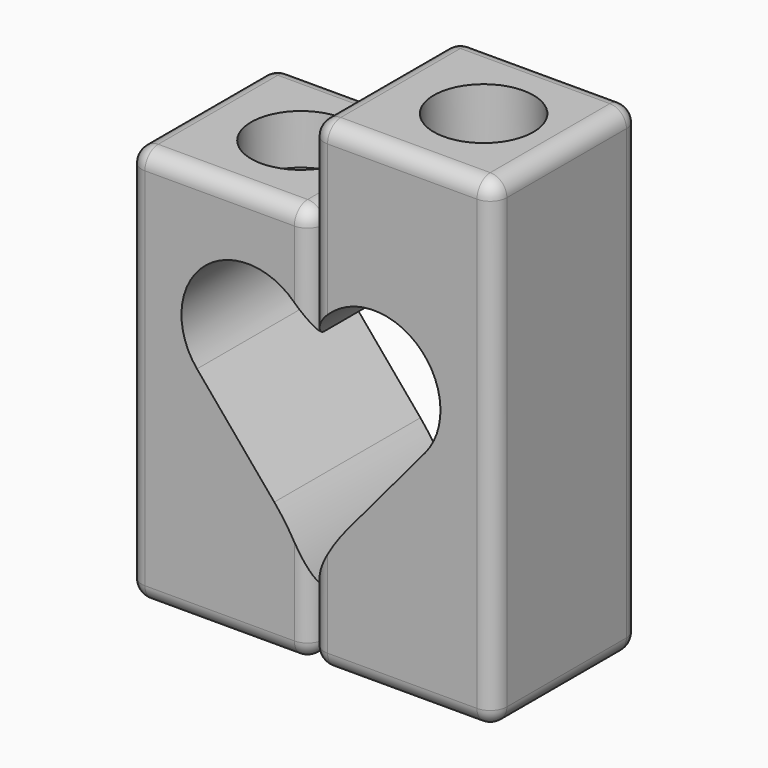
from build123d import *

# Parameters (mm, degrees)
F0_W      = 69.85
F0_H      = 69.85
F1_DEPTH  = 184.15
F2_R      = 6.35
F3_R      = 6.35
F4_W      = 69.85
F4_H      = 69.85
F5_DEPTH  = 152.4
F6_R      = 6.35
F7_R      = 6.35
F8_R      = 19.05
F9_DEPTH  = 25.4
F11_DEPTH = 76.2
F12_R     = 19.05
F13_DEPTH = 19.05


with BuildPart() as f1:
    # F0 (on Top) → F1 (new body)
    with BuildSketch(Plane.XY):
        with Locations((34.925, 34.925)):
            Rectangle(F0_W, F0_H)
    extrude(amount=F1_DEPTH)

    # F2
    f2_edges = [f1.edges().sort_by_distance(p)[0] for p in [
        (0, 69.85, 92.075),
        (0, 0, 92.075),
        (69.85, 0, 92.075),
        (69.85, 69.85, 92.075),
    ]]
    fillet(f2_edges, radius=F2_R)

    # F3
    f3_edges = [f1.edges().sort_by_distance(p)[0] for p in [
        (69.85, 34.925, 184.15),
        (69.85, 34.925, 0),
        (69.85, 6.35, 92.075),
        (69.85, 63.5, 92.075),
    ]]
    fillet(f3_edges, radius=F3_R)

    # F8 (on face) → F9 (cut)
    with BuildSketch(Plane.XY.offset(184.15)):
        with Locations((38.1, 34.925)):
            Circle(F8_R)
    extrude(amount=-F9_DEPTH, mode=Mode.SUBTRACT)


with BuildPart() as f5:
    # F4 (on Top) → F5 (new body)
    with BuildSketch(Plane.XY):
        with Locations((-34.925, 34.925)):
            Rectangle(F4_W, F4_H)
    extrude(amount=F5_DEPTH)

    # F6
    f6_edges = [f5.edges().sort_by_distance(p)[0] for p in [
        (0, 0, 76.2),
        (-69.85, 0, 76.2),
        (-69.85, 69.85, 76.2),
        (0, 69.85, 76.2),
    ]]
    fillet(f6_edges, radius=F6_R)

    # F7
    f7_edges = [f5.edges().sort_by_distance(p)[0] for p in [
        (-34.925, 69.85, 152.4),
        (-69.85, 34.925, 0),
        (-69.85, 63.5, 76.2),
        (-69.85, 6.35, 76.2),
        (-69.85, 34.925, 152.4),
    ]]
    fillet(f7_edges, radius=F7_R)


with BuildPart() as f11_tool:
    # F10 (on face) → F11 (new body)
    with BuildSketch(Plane.XZ):
        with BuildLine():
            Line((14.01906, 50.588936), (43.58698, 85.824204))
            ThreePointArc((43.58698, 85.824204), (36.482299, 124.345823), (0, 110.082811))
            ThreePointArc((0, 110.082811), (-36.482299, 124.345823), (-43.58698, 85.824204))
            Line((-43.58698, 85.824204), (-14.01906, 50.588936))
            ThreePointArc((-14.01906, 50.588936), (-5.807521, 38.663454), (0, 25.4))
            ThreePointArc((0, 25.4), (5.807521, 38.663454), (14.01906, 50.588936))
        make_face()
    extrude(amount=-F11_DEPTH)


with BuildPart() as f1_1:
    add(f1.part)

    # F11: cut by f11_tool
    add(f11_tool.part, mode=Mode.SUBTRACT)


with BuildPart() as f5_1:
    add(f5.part)

    # F11: cut by f11_tool
    add(f11_tool.part, mode=Mode.SUBTRACT)

    # F12 (on face) → F13 (cut)
    with BuildSketch(Plane.XY.offset(152.4)):
        with Locations((-31.75, 34.925)):
            Circle(F12_R)
    extrude(amount=-F13_DEPTH, mode=Mode.SUBTRACT)


solid = Compound([f1_1.part, f5_1.part])
